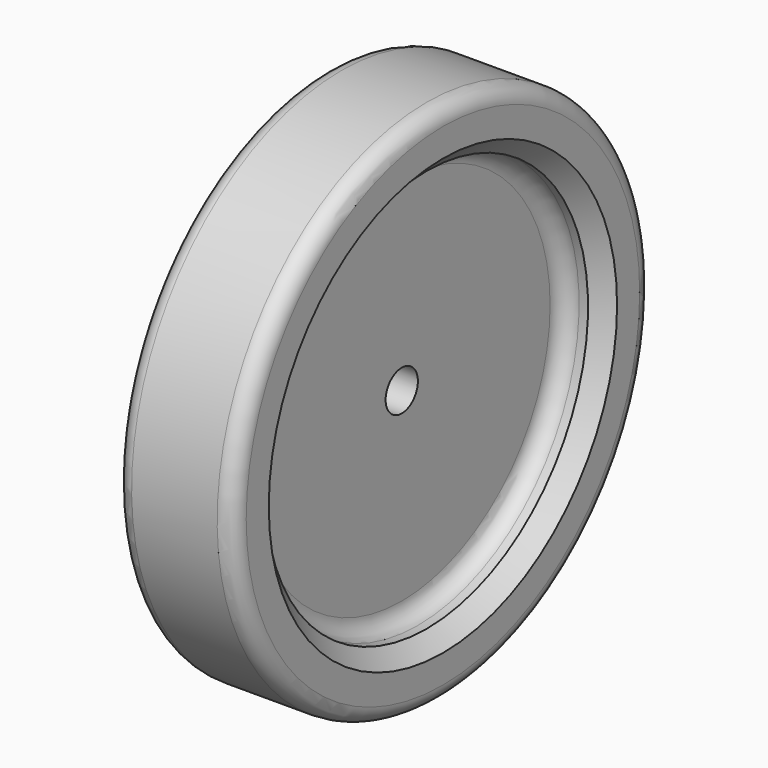
from build123d import *

# Parameters (mm, degrees)
F2_R    = 5.08
F3_SIZE = 5.08
F4_R    = 5.08


with BuildPart() as f1:
    # F0 (on Front) → F1 (revolve)
    with BuildSketch(Plane.XZ):
        Polygon((19.406605757, 62.1960816438), (-17.702616065, 62.1960816438), (-17.702616065, 43.1460816438), (-4.7324024234, 43.1460816438), (-4.7324024234, -6.6680153832), (-17.702616065, -6.6680153832), (-17.702616065, -14.0039183562), (-4.7324024234, -14.0039183562), (6.4363921154, -14.0039183562), (6.4363921154, 43.1460816438), (19.406605757, 43.1460816438), align=None)
    revolve(axis=Axis((6.8320201244, 0, -20.3539183562), (1, 0, 0)))

    # F2
    f2_edges = [f1.edges().sort_by_distance(p)[0] for p in [
        (-4.732402, 0, -83.853918),
        (6.436392, 0, -83.853918),
        (19.406606, 0, -102.903918),
        (-17.702616, 0, -102.903918),
    ]]
    fillet(f2_edges, radius=F2_R)

    # F3
    f3_edges = [f1.edges().sort_by_distance(p)[0] for p in [
        (19.406606, 0, -83.853918),
    ]]
    chamfer(f3_edges, length=F3_SIZE)

    # F4
    f4_edges = [f1.edges().sort_by_distance(p)[0] for p in [
        (-4.732402, 0, -34.039821),
    ]]
    fillet(f4_edges, radius=F4_R)


solid = f1.part
